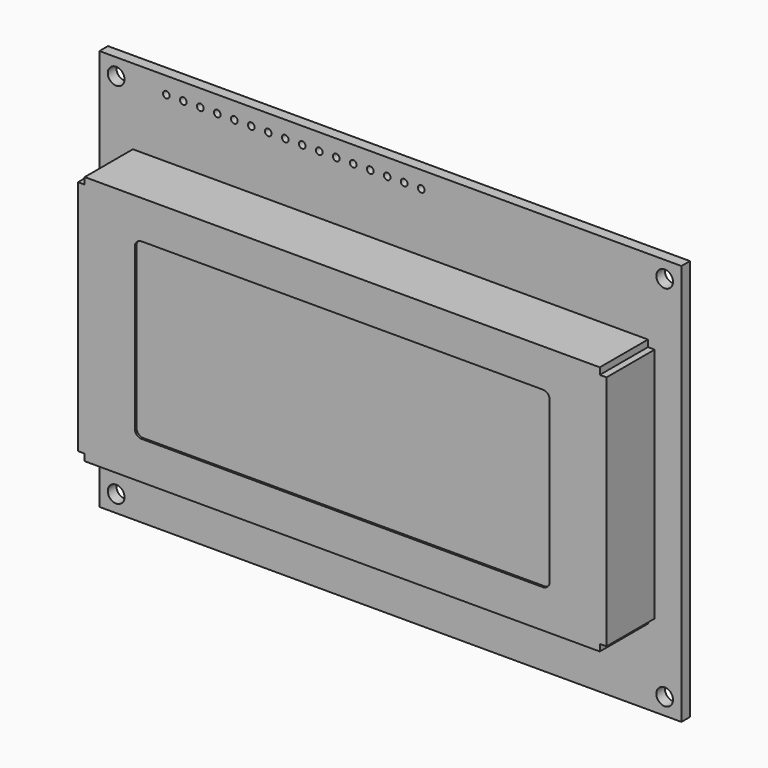
from build123d import *

# Parameters (mm, degrees)
F0_W     = 79
F0_H     = 37.4
F1_DEPTH = 9
F2_W     = 62
F2_H     = 26
F3_DEPTH = 0.3
F4_R     = 1
F5_W     = 1
F5_H     = 1
F6_DEPTH = 25.4
F7_W     = 87
F7_H     = 60
F8_DEPTH = 1.6
F10_D    = 2.5
F12_D    = 1


with BuildPart() as f1:
    # F0 (on Front) → F1 (new body)
    with BuildSketch(Plane.XZ):
        Rectangle(F0_W, F0_H)
    extrude(amount=F1_DEPTH)

    # F2 (on face) → F3 (cut)
    with BuildSketch(Plane.XZ.offset(9)):
        Rectangle(F2_W, F2_H)
    extrude(amount=-F3_DEPTH, mode=Mode.SUBTRACT)

    # F4
    f4_edges = [f1.edges().sort_by_distance(p)[0] for p in [
        (-31, -8.85, 13),
        (31, -8.85, 13),
        (31, -8.85, -13),
        (-31, -8.85, -13),
    ]]
    fillet(f4_edges, radius=F4_R)

    # F5 (on face) → F6 (cut)
    with BuildSketch(Plane.XZ.offset(9)):
        with Locations((-39, -18.2)):
            Rectangle(F5_W, F5_H)
        with Locations((39, -18.2)):
            Rectangle(F5_W, F5_H)
        with Locations((39, 18.2)):
            Rectangle(F5_W, F5_H)
        with Locations((-39, 18.2)):
            Rectangle(F5_W, F5_H)
    extrude(amount=-F6_DEPTH, mode=Mode.SUBTRACT)

    # F7 (on face) → F8 (join)
    with BuildSketch(Plane(origin=(0, 0, 0), x_dir=(-1, 0, 0), z_dir=(0, 1, 0))):
        Rectangle(F7_W, F7_H)
    extrude(amount=F8_DEPTH)

    # F10 (through all)
    with Locations(Plane.XZ):
        with Locations((-41, 27.5), (-41, -27.5), (41, 27.5), (41, -27.5)):
            Hole(F10_D / 2)

    # F12 (through all)
    with Locations(Plane.XZ):
        with Locations((-33.5, 27.5), (-30.96, 27.5), (-28.42, 27.5), (-25.88, 27.5), (-23.34, 27.5), (-20.8, 27.5), (-18.26, 27.5), (-15.72, 27.5), (-13.18, 27.5), (-10.64, 27.5), (-8.1, 27.5), (-5.56, 27.5), (-3.02, 27.5), (-0.48, 27.5), (2.06, 27.5), (4.6, 27.5)):
            Hole(F12_D / 2)


solid = f1.part
